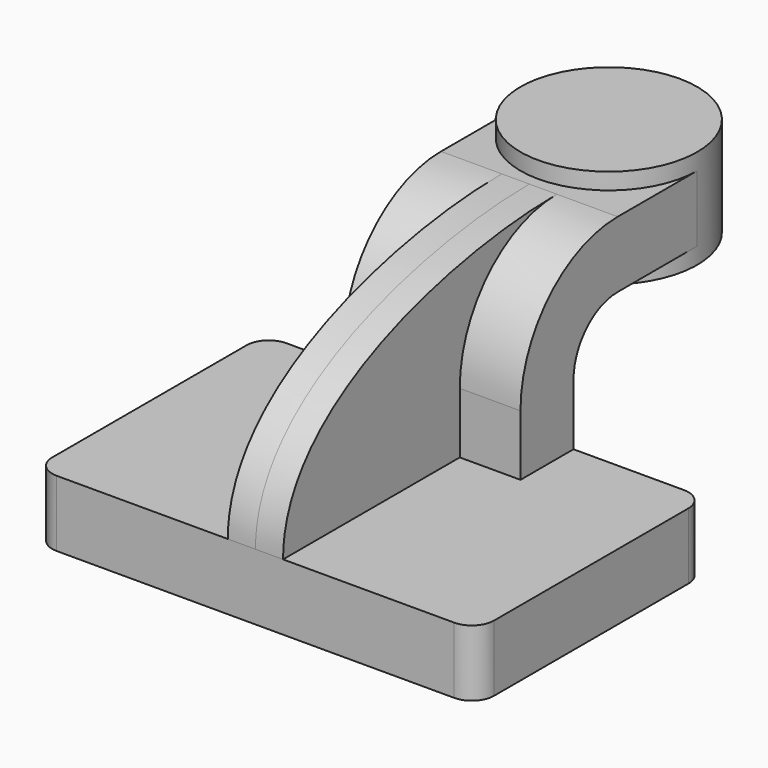
from build123d import *

# Parameters (mm, degrees)
F1_DEPTH = 63.5
F0_W     = 25.4
F0_H     = 19.05
F2_DEPTH = 25.4
F3_DEPTH = 7.9375
F5_R     = 6.35


with BuildPart() as f1:
    # F0 (on Right) → F1 (new body, symmetric)
    with BuildSketch(Plane.YZ):
        Polygon((-41.275, -9.525), (41.275, -9.525), (41.275, 9.525), (22.225, 9.525), (-41.275, 9.525), align=None)
    extrude(amount=F1_DEPTH, both=True)

    # F0 (on Right) → F2 (join, symmetric)
    with BuildSketch(Plane.YZ):
        with BuildLine():
            Line((22.225, 9.525), (41.275, 9.525))
            Line((41.275, 9.525), (41.275, 27.0002))
            ThreePointArc((41.275, 27.0002), (45.9246798487, 38.2255201513), (57.15, 42.8752))
            Line((57.15, 42.8752), (60.325, 42.8752))
            Line((60.325, 42.8752), (60.325, 61.9252))
            Line((60.325, 61.9252), (57.15, 61.9252))
            ThreePointArc((57.15, 61.9252), (32.4542956671, 51.6959043329), (22.225, 27.0002))
            Line((22.225, 27.0002), (22.225, 9.525))
        make_face()
        with Locations((73.025, 52.4002)):
            Rectangle(F0_W, F0_H)
    extrude(amount=F2_DEPTH, both=True)

    # F0 (on Right) → F3 (join, symmetric)
    with BuildSketch(Plane.YZ):
        with BuildLine():
            add(Edge.make_bspline(
                [(57.15, 61.9252), (20.7915678899, 61.9252), (-41.275, 48.0412916491), (-41.275, 9.525)],
                knots=[0, 0, 0, 0, 111.5045361635, 111.5045361635, 111.5045361635, 111.5045361635], degree=3))
            Line((-41.275, 9.525), (22.225, 9.525))
            Line((22.225, 9.525), (22.225, 27.0002))
            ThreePointArc((22.225, 27.0002), (32.4542956671, 51.6959043329), (57.15, 61.9252))
        make_face()
    extrude(amount=F3_DEPTH, both=True)

    # F0 (on Right) → F4 (revolve)
    with BuildSketch(Plane.YZ):
        Polygon((85.725, 66.675), (85.725, 61.9252), (85.725, 42.8752), (85.725, 38.1), (111.125, 38.1), (111.125, 66.675), align=None)
    revolve(axis=Axis((0, 85.725, 52.3875), (0, 0, -1)))

    # F5
    f5_edges = [f1.edges().sort_by_distance(p)[0] for p in [
        (63.5, 41.275, 0),
        (63.5, -41.275, 0),
        (-63.5, -41.275, 0),
        (-63.5, 41.275, 0),
    ]]
    fillet(f5_edges, radius=F5_R)


solid = f1.part
